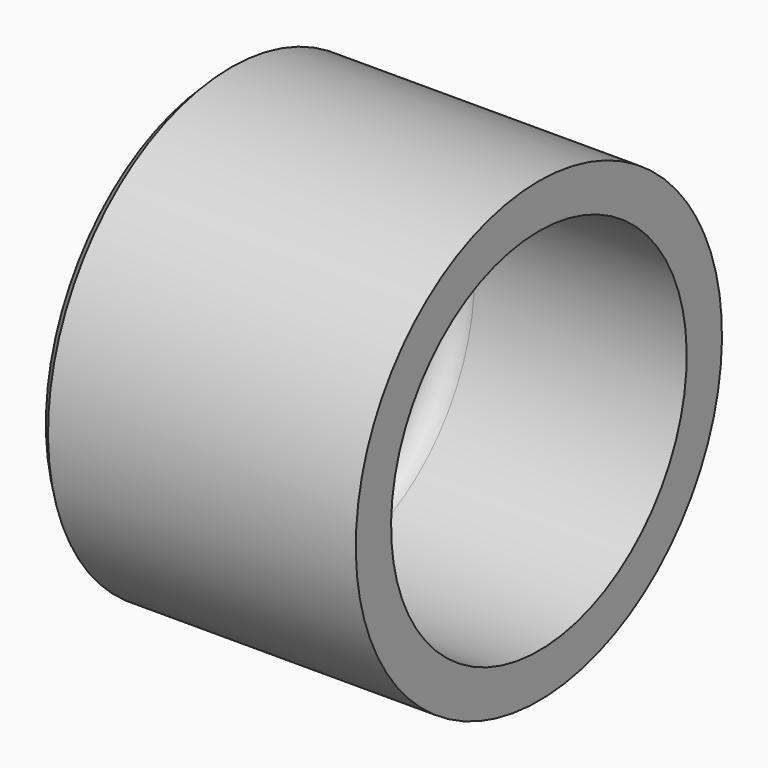
from build123d import *

# Parameters (mm, degrees)
F2_SIZE = 5.08
F3_SIZE = 2.54


with BuildPart() as f1:
    # F0 (on Front) → F1 (revolve)
    with BuildSketch(Plane.XZ):
        with BuildLine():
            Line((0, 88.4301), (0, 109.5375))
            Line((0, 109.5375), (-152.4, 109.5375))
            Line((-152.4, 109.5375), (-152.4, 47.625))
            Line((-152.4, 47.625), (-114.3, 47.625))
            Line((-114.3, 47.625), (-114.3, 75.7301))
            ThreePointArc((-114.3, 75.7301), (-110.580256, 84.710356), (-101.6, 88.4301))
            Line((-101.6, 88.4301), (0, 88.4301))
        make_face()
    revolve(axis=Axis((-61.485236, 0, 0), (-1, 0, 0)))

    # F2
    f2_edges = [f1.edges().sort_by_distance(p)[0] for p in [
        (-152.4, 0, -109.5375),
    ]]
    chamfer(f2_edges, length=F2_SIZE)

    # F3
    f3_edges = [f1.edges().sort_by_distance(p)[0] for p in [
        (-152.4, 0, -47.625),
        (-114.3, 0, -47.625),
        (-133.35, 0, 47.625),
    ]]
    chamfer(f3_edges, length=F3_SIZE)


solid = f1.part
